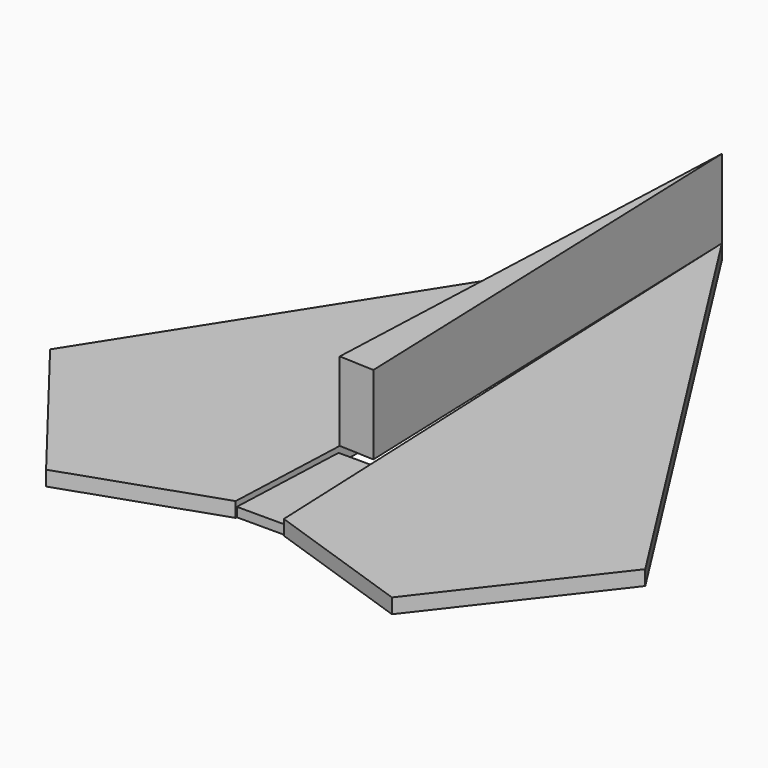
from build123d import *

# Parameters (mm, degrees)
F1_DEPTH = 3.2
F3_DEPTH = 17
F5_DEPTH = 2


with BuildPart() as f1:
    # F0 (on Top) → F1 (new body)
    with BuildSketch(Plane.XY):
        Polygon((-5.206286, -48.158143), (0, 76.503493), (-64.210862, -24.440616), (-37.311718, -59.149191), align=None)
        Polygon((64.210862, -24.440616), (0, 76.503493), (5.206286, -48.158143), (37.311718, -59.149191), align=None)
    extrude(amount=F1_DEPTH)


with BuildPart() as f3:
    # F2 (on face) → F3 (new body)
    with BuildSketch(Plane.XY.offset(3.2)):
        Polygon((3.430172, -21.785341), (0, 76.503493), (-4.091751, -21.471201), align=None)
    extrude(amount=F3_DEPTH)


with BuildPart() as f5:
    # F4 (on Top) → F5 (new body)
    with BuildSketch(Plane.XY):
        Polygon((-4.67599, -21.772821), (-5.903192, -47.850896), (5.14164, -47.850896), (5.14164, -21.772821), align=None)
    extrude(amount=F5_DEPTH)


solid = Compound([f1.part, f3.part, f5.part])
